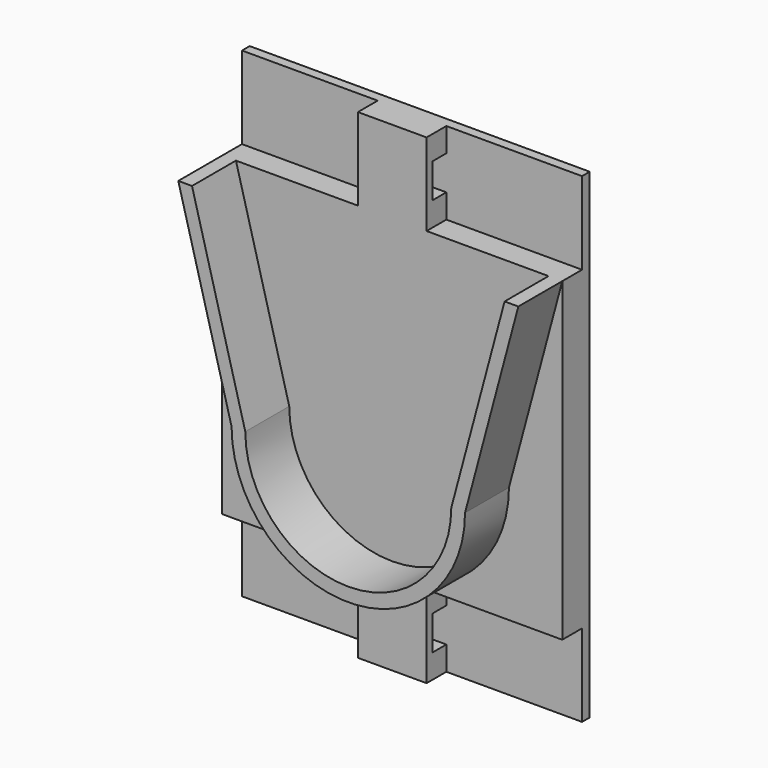
from build123d import *

# Parameters (mm, degrees)
F1_DEPTH  = 8
F2_W      = 49.5291427062
F2_H      = 45.9777747887
F3_DEPTH  = 5
F5_DEPTH  = 12
F6_W      = 2.5
F6_H      = 5
F7_DEPTH  = 29.7655713531
F9_DEPTH  = 12
F10_W     = 2.5
F10_H     = 5
F11_DEPTH = 29.7655713531


with BuildPart() as f1:
    # F0 (on Front) → F1 (new body)
    with BuildSketch(Plane.XZ):
        with BuildLine():
            ThreePointArc((15, 0), (0, -15), (-15, 0))
            Line((-15, 0), (-22.7645713531, 28.9777747887))
            Line((-22.7645713531, 28.9777747887), (-24.7645713531, 28.9777747887))
            Line((-24.7645713531, 28.9777747887), (-17, 0))
            ThreePointArc((-17, 0), (0, -17), (17, 0))
            Line((17, 0), (24.7645713531, 28.9777747887))
            Line((24.7645713531, 28.9777747887), (22.7645713531, 28.9777747887))
            Line((22.7645713531, 28.9777747887), (15, 0))
        make_face()
    extrude(amount=F1_DEPTH)

    # F2 (on Front) → F3 (join)
    with BuildSketch(Plane.XZ):
        with Locations((0, 5.9888873943)):
            Rectangle(F2_W, F2_H)
    extrude(amount=-F3_DEPTH)

    # F4 (on face) → F5 (join)
    with BuildSketch(Plane(origin=(0, 0, -17), x_dir=(1, 0, 0), z_dir=(0, 0, -1))):
        Polygon((5, 0), (-5, 0), (-5, -3.6), (-24.7645713531, -3.6), (-24.7645713531, -5), (24.7645713531, -5), (24.7645713531, -3.6), (5, -3.6), align=None)
    extrude(amount=F5_DEPTH)

    # F6 (on face) → F7 (cut, through all)
    with BuildSketch(Plane.YZ.offset(5)):
        with Locations((2.35, -23)):
            Rectangle(F6_W, F6_H)
    extrude(amount=-F7_DEPTH, mode=Mode.SUBTRACT)

    # F8 (on face) → F9 (join)
    with BuildSketch(Plane.XY.offset(28.9777747887)):
        Polygon((24.7645713531, 5), (-24.7645713531, 5), (-24.7645713531, 3.6), (-5, 3.6), (-5, 0), (5, 0), (5, 3.6), (24.7645713531, 3.6), align=None)
    extrude(amount=F9_DEPTH)

    # F10 (on face) → F11 (cut, through all)
    with BuildSketch(Plane.YZ.offset(5)):
        with Locations((2.35, 34.9777747887)):
            Rectangle(F10_W, F10_H)
    extrude(amount=-F11_DEPTH, mode=Mode.SUBTRACT)


solid = f1.part
